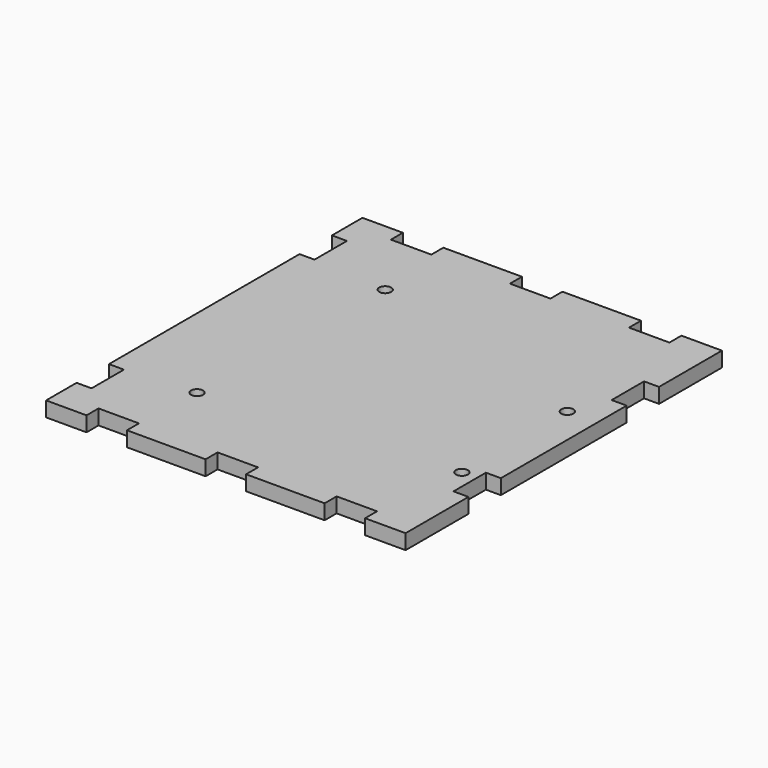
from build123d import *

# Parameters (mm, degrees)
F0_R     = 1.27
F1_DEPTH = 3.175


with BuildPart() as f1:
    # F0 (on Top) → F1 (new body)
    with BuildSketch(Plane.XY):
        Polygon((-29.5275, 41.91), (-38.1, 41.91), (-38.1, 33.8328), (-34.925, 33.8328), (-34.925, 25.2476), (-38.1, 25.2476), (-38.1, -25.2476), (-34.925, -25.2476), (-34.925, -33.8328), (-38.1, -33.8328), (-38.1, -41.91), (-29.5275, -41.91), (-29.5275, -38.735), (-20.955, -38.735), (-20.955, -41.91), (-4.2926, -41.91), (-4.2926, -38.735), (4.2926, -38.735), (4.2926, -41.91), (20.9423, -41.91), (20.9423, -38.735), (29.5148, -38.735), (29.5148, -41.91), (38.1, -41.91), (38.1, -25.2476), (34.925, -25.2476), (34.925, -16.6624), (38.1, -16.6624), (38.1, 16.6624), (34.925, 16.6624), (34.925, 25.2476), (38.1, 25.2476), (38.1, 41.91), (29.5148, 41.91), (29.5148, 38.735), (20.9423, 38.735), (20.9423, 41.91), (4.2926, 41.91), (4.2926, 38.735), (0, 38.735), (-4.2926, 38.735), (-4.2926, 41.91), (-20.955, 41.91), (-20.955, 38.735), (-29.5275, 38.735), align=None)
        with Locations((-20.32, -24.13)):
            Circle(F0_R, mode=Mode.SUBTRACT)
        with Locations((31.75, -19.05)):
            Circle(F0_R, mode=Mode.SUBTRACT)
        with Locations((-19.05, 24.13)):
            Circle(F0_R, mode=Mode.SUBTRACT)
        with Locations((31.75, 8.89)):
            Circle(F0_R, mode=Mode.SUBTRACT)
    extrude(amount=F1_DEPTH)


solid = f1.part
